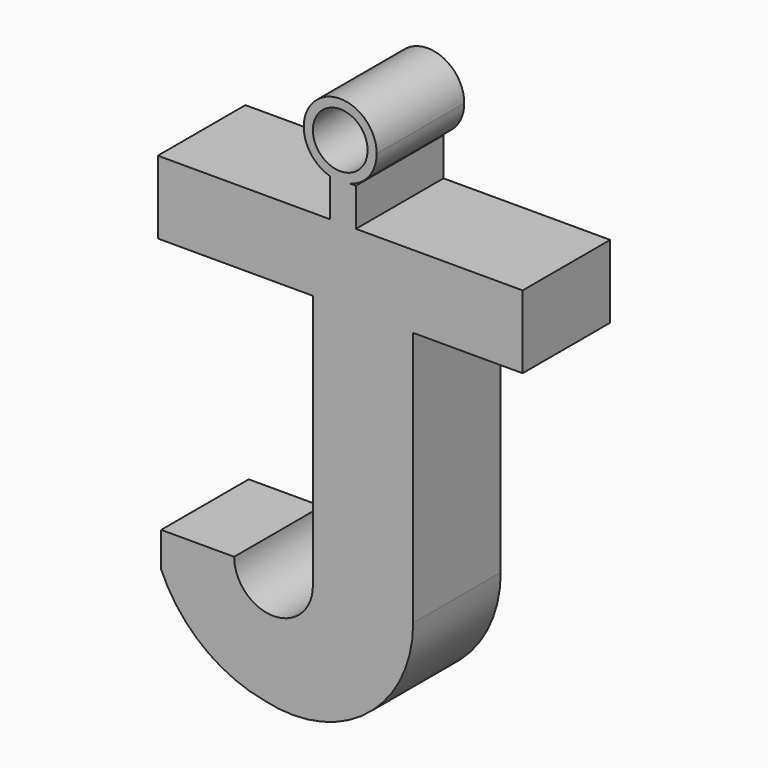
from build123d import *

# Parameters (mm, degrees)
F0_R     = 1.905
F1_DEPTH = 7.62


with BuildPart() as f1:
    # F0 (on Front) → F1 (new body)
    with BuildSketch(Plane.XZ):
        with BuildLine():
            Line((1.1841486596, 5.08), (-10.795, 5.08))
            Line((-10.795, 5.08), (-10.795, 0))
            Line((-10.795, 0), (0, 0))
            Line((0, 0), (0, -17.78))
            ThreePointArc((0, -17.78), (-2.7403535787, -20.5203535787), (-5.4807071574, -17.78))
            Line((-5.4807071574, -17.78), (-10.5607071574, -17.78))
            Line((-10.5607071574, -17.78), (-10.5607071574, -20.2195488962))
            ThreePointArc((-10.5607071574, -20.2195488962), (-7.6870708125, -23.955222101), (-3.3948952839, -25.9020835155))
            ThreePointArc((-3.3948952839, -25.9020835155), (3.7738885263, -24.3699633295), (6.985, -17.78))
            Line((6.985, -17.78), (6.985, 0))
            Line((6.985, 0), (14.605, 0))
            Line((14.605, 0), (14.605, 5.08))
            Line((14.605, 5.08), (3.0016307719, 5.08))
            Line((3.0016307719, 5.08), (1.1841486596, 5.08))
        make_face()
        with BuildLine():
            Line((1.1841486596, 7.7244357235), (1.1841486596, 5.08))
            Line((1.1841486596, 5.08), (3.0016307719, 5.08))
            Line((3.0016307719, 5.08), (3.0016307719, 7.7244357235))
            Line((3.0016307719, 7.7244357235), (2.6258513404, 7.7244357235))
            ThreePointArc((2.6258513404, 7.7244357235), (1.905, 7.62), (1.1841486596, 7.7244357235))
        make_face()
        with BuildLine():
            Line((2.6258513404, 7.7244357235), (1.1841486596, 7.7244357235))
            ThreePointArc((1.1841486596, 7.7244357235), (1.905, 7.62), (2.6258513404, 7.7244357235))
        make_face()
        with BuildLine():
            ThreePointArc((4.445, 10.16), (0.3850267115, 12.1950138089), (1.1841486596, 7.7244357235))
            Line((1.1841486596, 7.7244357235), (2.6258513404, 7.7244357235))
            ThreePointArc((2.6258513404, 7.7244357235), (3.9400138089, 8.6400267115), (4.445, 10.16))
        make_face()
        with Locations((1.905, 10.16)):
            Circle(F0_R, mode=Mode.SUBTRACT)
    extrude(amount=F1_DEPTH)


solid = f1.part
